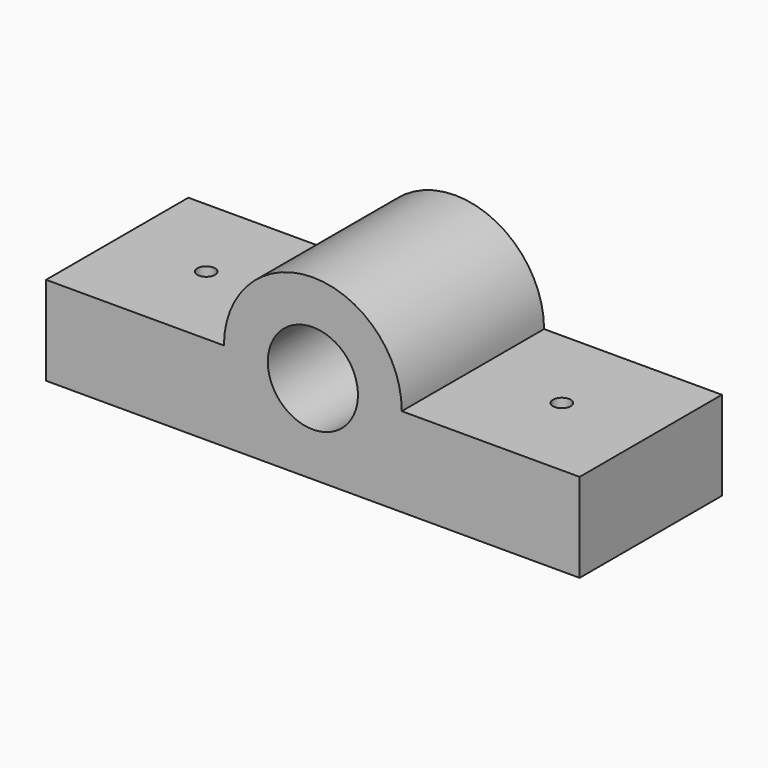
from build123d import *

# Parameters (mm, degrees)
F1_DEPTH = 20
F2_R     = 1
F3_DEPTH = 25
F4_R     = 1
F5_DEPTH = 25


with BuildPart() as f1:
    # F0 (on Front) → F1 (new body)
    with BuildSketch(Plane.XZ):
        with BuildLine():
            Line((30, -5), (30, 5))
            Line((30, 5), (10, 5))
            ThreePointArc((10, 5), (7.0710678119, -2.0710678119), (0, -5))
            Line((0, -5), (30, -5))
        make_face()
        with BuildLine():
            ThreePointArc((0, -5), (-7.0710678119, -2.0710678119), (-10, 5))
            Line((-10, 5), (-30, 5))
            Line((-30, 5), (-30, -5))
            Line((-30, -5), (0, -5))
        make_face()
        with BuildLine():
            ThreePointArc((0, -5), (7.0710678119, -2.0710678119), (10, 5))
            Line((10, 5), (5.0676797819, 5))
            ThreePointArc((5.0676797819, 5), (0, -0.0676797819), (-5.0676797819, 5))
            Line((-5.0676797819, 5), (-10, 5))
            ThreePointArc((-10, 5), (-7.0710678119, -2.0710678119), (0, -5))
        make_face()
        with BuildLine():
            Line((5.0676797819, 5), (10, 5))
            ThreePointArc((10, 5), (0, 15), (-10, 5))
            Line((-10, 5), (-5.0676797819, 5))
            ThreePointArc((-5.0676797819, 5), (0, 10.0676797819), (5.0676797819, 5))
        make_face()
    extrude(amount=F1_DEPTH)

    # F2 (on face) → F3 (cut)
    with BuildSketch(Plane.XY.offset(5)):
        with Locations((-20, -10)):
            Circle(F2_R)
    extrude(amount=-F3_DEPTH, mode=Mode.SUBTRACT)

    # F4 (on face) → F5 (cut)
    with BuildSketch(Plane.XY.offset(5)):
        with Locations((20, -10)):
            Circle(F4_R)
    extrude(amount=-F5_DEPTH, mode=Mode.SUBTRACT)


solid = f1.part
